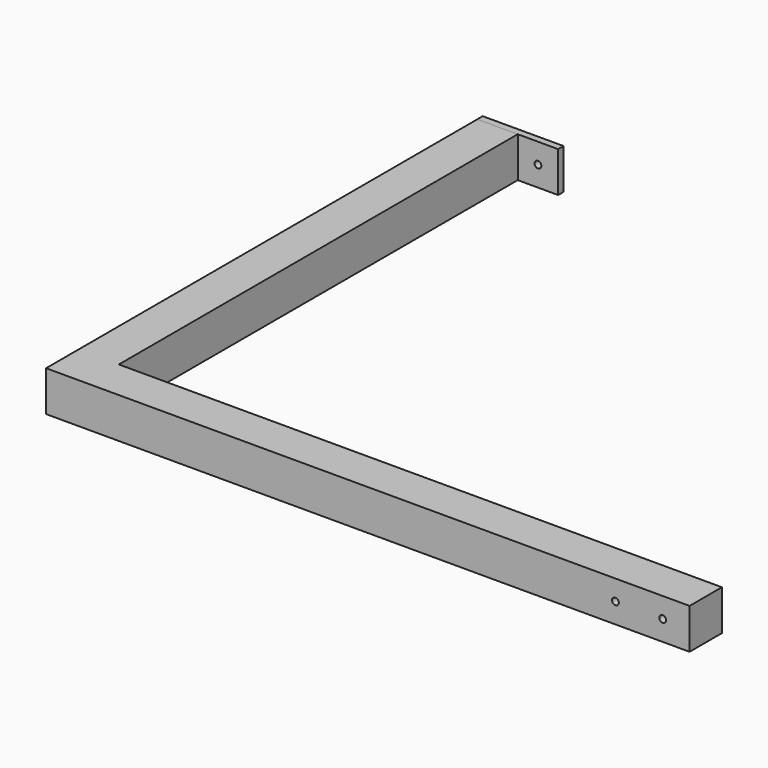
from build123d import *

# Parameters (mm, degrees)
F0_W     = 606.425
F0_H     = 508
F1_DEPTH = 38.1
F2_W     = 568.325
F2_H     = 469.9
F3_DEPTH = 38.101
F4_R     = 3.175
F5_DEPTH = 38.101
F6_W     = 76.2
F6_H     = 38.1
F7_DEPTH = 6.35
F8_R     = 3.175
F9_DEPTH = 6.351


with BuildPart() as f1:
    # F0 (on Top) → F1 (new body)
    with BuildSketch(Plane.XY):
        Rectangle(F0_W, F0_H)
    extrude(amount=F1_DEPTH)

    # F2 (on face) → F3 (cut, through all)
    with BuildSketch(Plane.XY.offset(38.1)):
        with Locations((19.05, 19.05)):
            Rectangle(F2_W, F2_H)
    extrude(amount=-F3_DEPTH, mode=Mode.SUBTRACT)

    # F4 (on face) → F5 (cut, through all)
    with BuildSketch(Plane(origin=(0, -215.9, 0), x_dir=(-1, 0, 0), z_dir=(0, 1, 0))):
        with Locations((-277.8125, 19.05)):
            Circle(F4_R)
        with Locations((-233.3625, 19.05)):
            Circle(F4_R)
    extrude(amount=-F5_DEPTH, mode=Mode.SUBTRACT)


with BuildPart() as f7:
    # F6 (on face) → F7 (new body)
    with BuildSketch(Plane(origin=(0, 254, 0), x_dir=(-1, 0, 0), z_dir=(0, 1, 0))):
        with Locations((265.1125, 19.05)):
            Rectangle(F6_W, F6_H)
    extrude(amount=F7_DEPTH)

    # F8 (on face) → F9 (cut, through all)
    with BuildSketch(Plane.XZ.offset(-254)):
        with Locations((-246.0625, 19.05)):
            Circle(F8_R)
    extrude(amount=-F9_DEPTH, mode=Mode.SUBTRACT)


solid = Compound([f1.part, f7.part])
